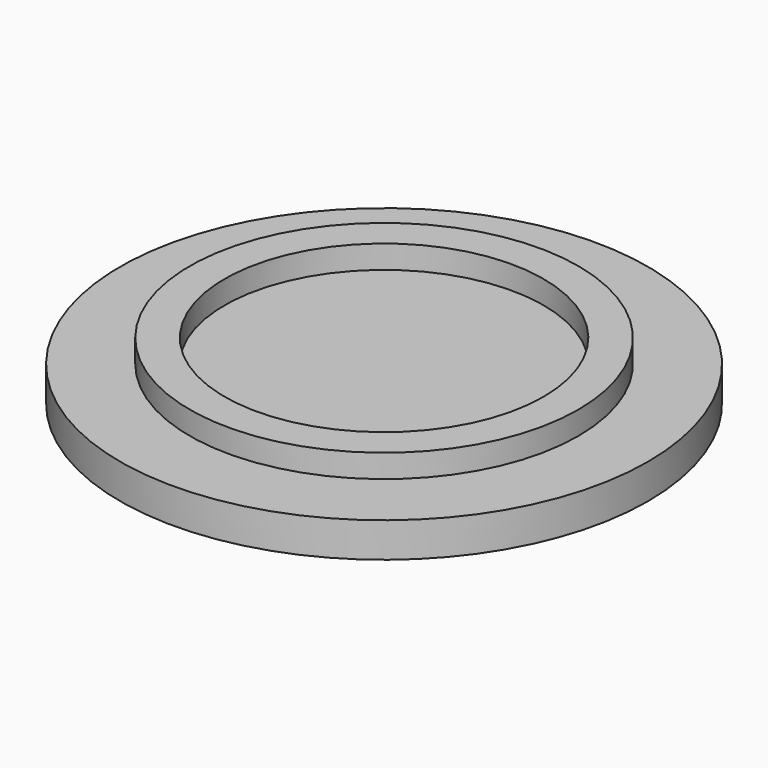
from build123d import *

# Parameters (mm, degrees)
SKETCH_R      = 22.75
PAD_DEPTH     = 3
SKETCH001_R   = 16.75
SKETCH001_R_2 = 13.75
PAD001_DEPTH  = 2


with BuildPart() as part:
    # Sketch → Pad (new body)
    with BuildSketch(Plane.XY):
        Circle(SKETCH_R)
    extrude(amount=PAD_DEPTH)

    # Sketch001 (on DatumPlane) → Pad001 (join)
    with BuildSketch(Plane.XY.offset(3)):
        Circle(SKETCH001_R)
        Circle(SKETCH001_R_2, mode=Mode.SUBTRACT)
    extrude(amount=PAD001_DEPTH)


solid = part.part
